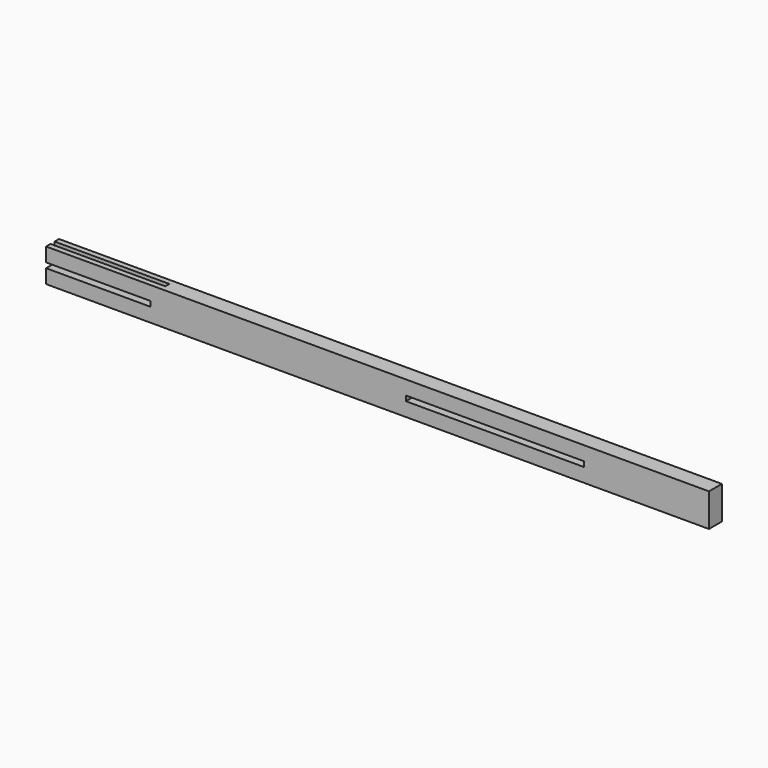
from build123d import *

# Parameters (mm, degrees)
F0_W     = 69.889937
F0_H     = 2
F1_DEPTH = 6.35
F2_W     = 45
F2_H     = 2
F3_DEPTH = 5


with BuildPart() as f1:
    # F0 (on Front) → F1 (new body)
    with BuildSketch(Plane.XZ):
        Polygon((130.0028, 13), (-129.9972, 13), (-129.9972, 7.5), (-88.9972, 7.5), (-88.9972, 5.5), (-129.9972, 5.5), (-129.9972, 0), (130.0028, 0), align=None)
        with Locations((46.057831, 6.457127)):
            Rectangle(F0_W, F0_H, mode=Mode.SUBTRACT)
    extrude(amount=F1_DEPTH)

    # F2 (on face) → F3 (cut)
    with BuildSketch(Plane.XY.offset(13)):
        with Locations((-107.4972, -3.1717)):
            Rectangle(F2_W, F2_H)
    extrude(amount=-F3_DEPTH, mode=Mode.SUBTRACT)


solid = f1.part
